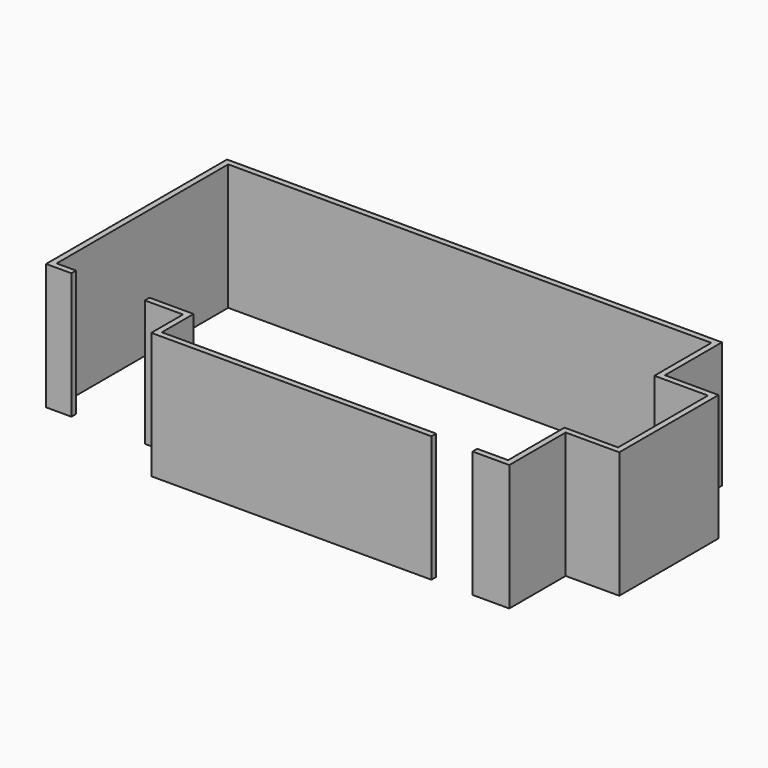
from build123d import *

# Parameters (mm, degrees)
F1_DEPTH = 2184.4


with BuildPart() as f1:
    # F0 (on Top) → F1 (new body)
    with BuildSketch(Plane.XY):
        Polygon((0, -3708.4), (0, 0), (812.8, 0), (3048, 0), (8356.6, 0), (8356.6, -1231.9), (9283.7, -1231.9), (9283.7, -3175), (8356.6, -3175), (8356.6, -4394.2), (7823.2, -4394.2), (7823.2, -4495.8), (8458.2, -4495.8), (8458.2, -3276.6), (9385.3, -3276.6), (9385.3, -1130.3), (8458.2, -1130.3), (8458.2, 101.6), (5651.08757, 101.6), (-101.6, 101.6), (-101.6, -3810), (336.55, -3810), (336.55, -3708.4), align=None)
        Polygon((2368.55, -3708.4), (1606.55, -3708.4), (1606.55, -3810), (2266.95, -3810), (2266.95, -4495.8), (7112, -4495.8), (7112, -4394.2), (2368.55, -4394.2), align=None)
    extrude(amount=F1_DEPTH)


solid = f1.part
